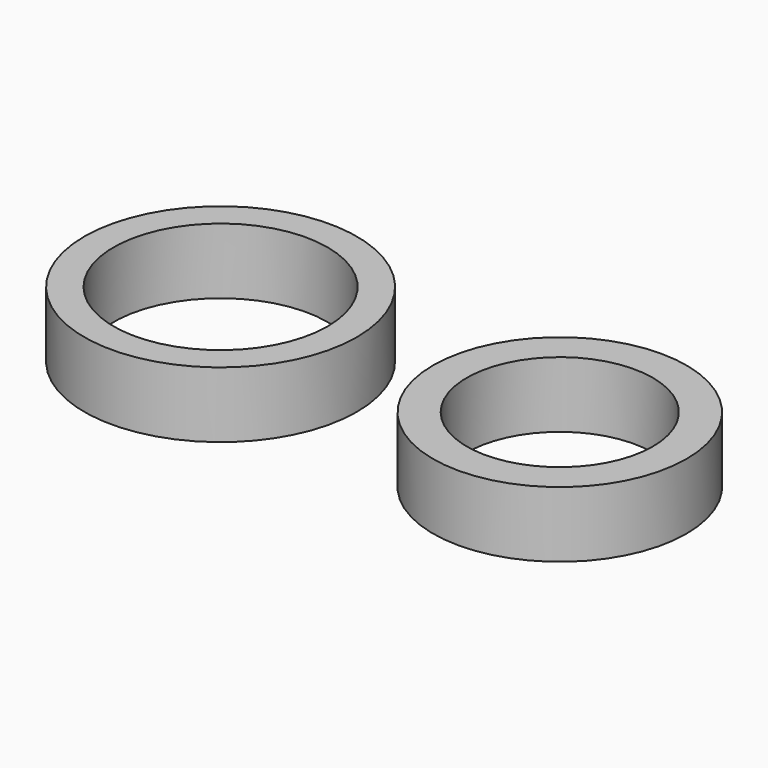
from build123d import *

# Parameters (mm, degrees)
F0_R     = 68.638992
F0_R_2   = 53.909941
F0_R_3   = 63.833585
F0_R_4   = 46.853222
F1_DEPTH = 33.127323


with BuildPart() as f1:
    # F0 (on Top) → F1 (new body)
    with BuildSketch(Plane.XY):
        Circle(F0_R)
        Circle(F0_R_2, mode=Mode.SUBTRACT)
        Circle(F0_R)
        Circle(F0_R_2, mode=Mode.SUBTRACT)
        with Locations((170.823902, 0)):
            Circle(F0_R_3)
        with Locations((170.823902, 0)):
            Circle(F0_R_4, mode=Mode.SUBTRACT)
    extrude(amount=F1_DEPTH)


solid = f1.part
